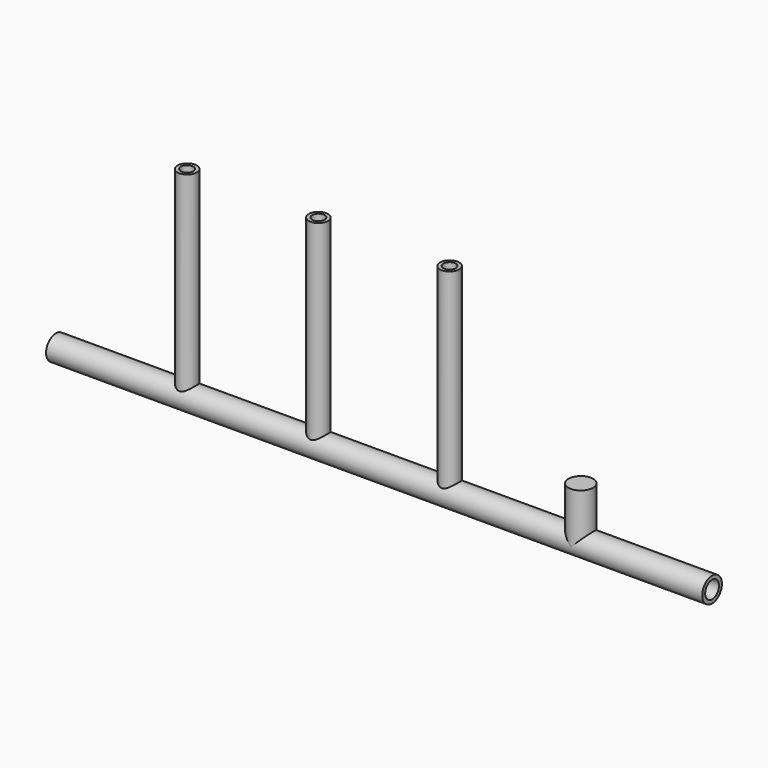
from build123d import *

# Parameters (mm, degrees)
F1_R   = 57.15
F1_R_2 = 40.0304
F3_R   = 44.45
F3_R_2 = 29.21
F3_R_3 = 57.15


with BuildPart() as f2:
    # F2: sweep along a path in F0
    with BuildLine(Plane.XZ) as f2_path:
        Line((0, 0), (3048, 0))
    # F1 (on Right) → F2 (sweep)
    with BuildSketch(Plane.YZ):
        Circle(F1_R)
        Circle(F1_R_2, mode=Mode.SUBTRACT)
    sweep(path=f2_path.line)

    # F4: sweep along a path in F0
    with BuildLine(Plane.XZ) as f4_path:
        Line((609.6, 927.1), (609.6, 0))
    # F3 (on Top) → F4 (sweep)
    with BuildSketch(Plane.XY):
        with Locations((609.6, 0)):
            Circle(F3_R)
        with Locations((609.6, 0)):
            Circle(F3_R_2, mode=Mode.SUBTRACT)
        with Locations((1219.2, 0)):
            Circle(F3_R)
        with Locations((1219.2, 0)):
            Circle(F3_R_2, mode=Mode.SUBTRACT)
        with Locations((1828.8, 0)):
            Circle(F3_R)
        with Locations((1828.8, 0)):
            Circle(F3_R_2, mode=Mode.SUBTRACT)
    sweep(path=f4_path.line)

    # F5: sweep along a path in F0
    with BuildLine(Plane.XZ) as f5_path:
        Line((2438.4, 236.601), (2438.4, 0))
    # F3 (on Top) → F5 (sweep)
    with BuildSketch(Plane.XY):
        with Locations((2438.4, 0)):
            Circle(F3_R_3)
    sweep(path=f5_path.line)


solid = f2.part
